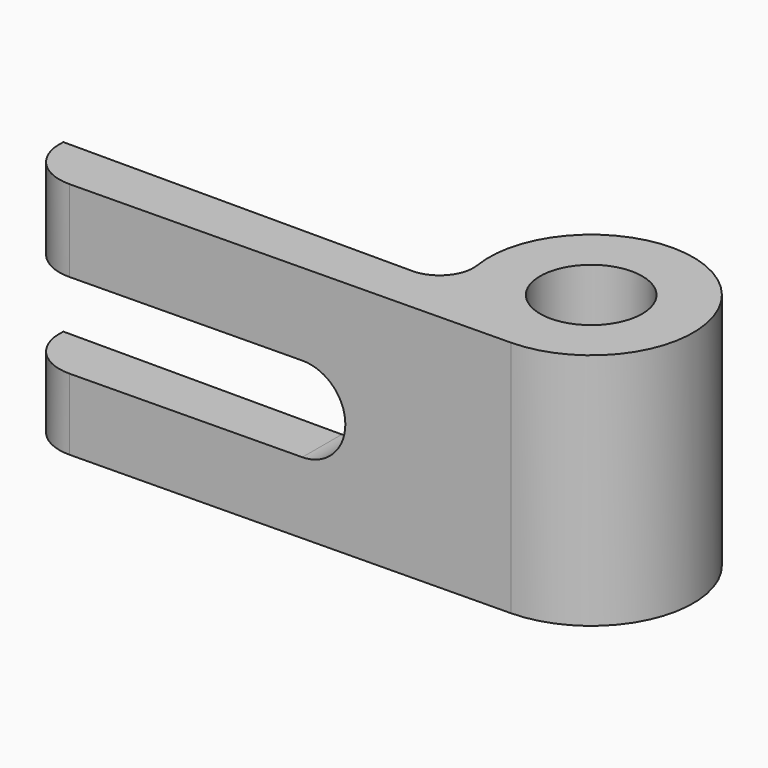
from build123d import *

# Parameters (mm, degrees)
F1_DEPTH = 44.45
F2_R     = 9.525
F3_DEPTH = 50.8
F4_W     = 9.3673091604
F4_H     = 15.875
F5_DEPTH = 50.8


with BuildPart() as f1:
    # F0 (on Top) → F1 (new body)
    with BuildSketch(Plane.XY):
        with BuildLine():
            Line((-81.1569189035, -20.1813574524), (0.265105312, -19.0481552696))
            ThreePointArc((0.265105312, -19.0481552696), (12.2559693491, 14.584022604), (-18.8093233143, -3.0185851749))
            ThreePointArc((-18.8093233143, -3.0185851749), (-20.2463015318, -8.1438311785), (-25.0790977524, -10.3747802332))
            Line((-25.0790977524, -10.3747802332), (-35.6496162713, -10.3747802332))
            Line((-35.6496162713, -10.3747802332), (-78.4760718424, -10.3747802332))
            Line((-78.4760718424, -10.3747802332), (-81.139177084, -10.3747802332))
            Line((-81.139177084, -10.3747802332), (-90.1725590229, -10.3747802332))
            ThreePointArc((-90.1725590229, -10.3747802332), (-87.8582711897, -17.294684498), (-81.1569189035, -20.1813574524))
        make_face()
        with BuildLine():
            ThreePointArc((-81.2756354813, -10.3766794116), (-81.2074128903, -10.3752550508), (-81.139177084, -10.3747802332))
            Line((-81.139177084, -10.3747802332), (-81.2756354813, -10.3766794116))
        make_face(mode=Mode.SUBTRACT)
        with BuildLine():
            Line((-81.2756354813, -10.3766794116), (-81.139177084, -10.3747802332))
            ThreePointArc((-81.139177084, -10.3747802332), (-81.2074128903, -10.3752550508), (-81.2756354813, -10.3766794116))
        make_face()
    extrude(amount=F1_DEPTH)

    # F2 (on Top) → F3 (cut)
    with BuildSketch(Plane.XY):
        Circle(F2_R)
    extrude(amount=F3_DEPTH, mode=Mode.SUBTRACT)

    # F4 (on face) → F5 (cut)
    with BuildSketch(Plane(origin=(0, -10.3747802332, 0), x_dir=(-1, 0, 0), z_dir=(0, 1, 0))):
        with BuildLine():
            Line((38.230586797, 13.324032113), (77.2564191149, 13.324032113))
            Line((77.2564191149, 13.324032113), (77.2564191149, 29.199032113))
            Line((77.2564191149, 29.199032113), (38.230586797, 29.199032113))
            ThreePointArc((38.230586797, 29.199032113), (30.293086797, 21.261532113), (38.230586797, 13.324032113))
        make_face()
        with Locations((81.9400736951, 21.261532113)):
            Rectangle(F4_W, F4_H)
        Polygon((86.6237282753, 29.199032113), (86.6237282753, 13.324032113), (90.1725590229, 13.324032113), (98.23808074, 13.324032113), (98.23808074, 28.8764107972), (90.1725590229, 29.199032113), align=None)
    extrude(amount=-F5_DEPTH, mode=Mode.SUBTRACT)


solid = f1.part
